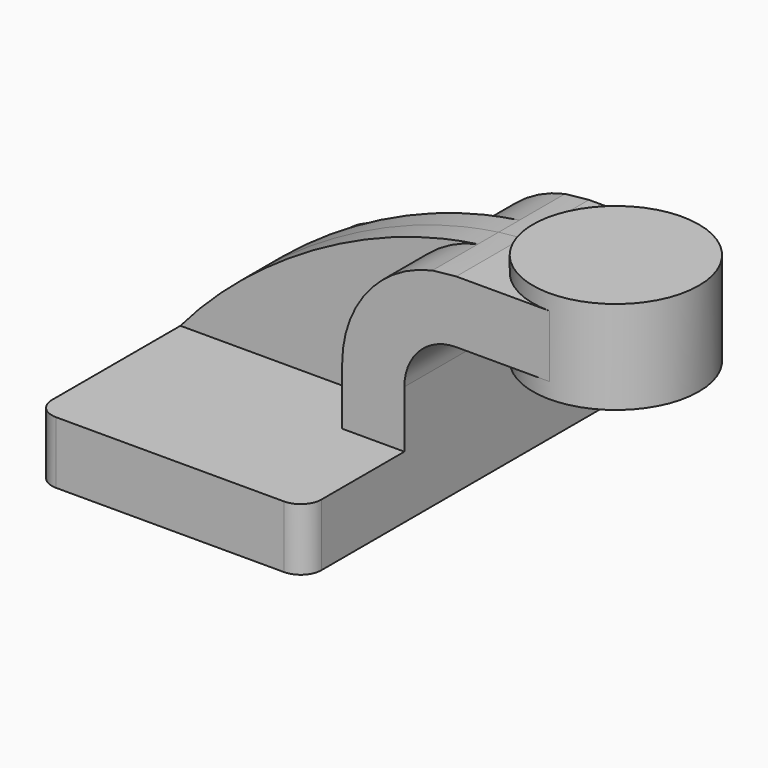
from build123d import *

# Parameters (mm, degrees)
F1_DEPTH = 63.5
F0_W     = 25.4
F0_H     = 19.05
F2_DEPTH = 25.4
F3_DEPTH = 7.9375
F5_R     = 6.35


with BuildPart() as f1:
    # F0 (on Front) → F1 (new body, symmetric)
    with BuildSketch(Plane.XZ):
        Polygon((-41.275, 9.525), (-41.275, -9.525), (41.275, -9.525), (41.275, 9.525), (22.225, 9.525), align=None)
    extrude(amount=F1_DEPTH, both=True)

    # F0 (on Front) → F2 (join, symmetric)
    with BuildSketch(Plane.XZ):
        with Locations((73.025, 52.4002)):
            Rectangle(F0_W, F0_H)
        with BuildLine():
            Line((22.225, 9.525), (41.275, 9.525))
            Line((41.275, 9.525), (41.275, 27.0002))
            ThreePointArc((41.275, 27.0002), (45.9246798487, 38.2255201513), (57.15, 42.8752))
            Line((57.15, 42.8752), (60.325, 42.8752))
            Line((60.325, 42.8752), (60.325, 61.9252))
            Line((60.325, 61.9252), (57.15, 61.9252))
            add(Edge.make_bspline(
                [(49.825534821, 61.1485211131), (52.2596679062, 61.4875076001), (54.7024079175, 61.748044059), (57.15, 61.9252)],
                knots=[104.5406127247, 104.5406127247, 104.5406127247, 104.5406127247, 111.5045361635, 111.5045361635, 111.5045361635, 111.5045361635], degree=3))
            ThreePointArc((49.825534821, 61.1485211131), (29.9878703764, 48.9541139862), (22.225, 27.0002))
            Line((22.225, 27.0002), (22.225, 9.525))
        make_face()
    extrude(amount=F2_DEPTH, both=True)

    # F0 (on Front) → F3 (join, symmetric)
    with BuildSketch(Plane.XZ):
        with BuildLine():
            add(Edge.make_bspline(
                [(-41.275, 9.525), (-21.3160233561, 33.2920678082), (13.2849601847, 56.0597438783), (49.825534821, 61.1485211131)],
                knots=[0, 0, 0, 0, 104.5406127247, 104.5406127247, 104.5406127247, 104.5406127247], degree=3))
            Line((-41.275, 9.525), (22.225, 9.525))
            Line((22.225, 9.525), (22.225, 27.0002))
            ThreePointArc((22.225, 27.0002), (29.9878703764, 48.9541139862), (49.825534821, 61.1485211131))
        make_face()
    extrude(amount=F3_DEPTH, both=True)

    # F0 (on Front) → F4 (revolve)
    with BuildSketch(Plane.XZ):
        Polygon((85.725, 66.675), (85.725, 61.9252), (85.725, 42.8752), (85.725, 38.1), (111.125, 38.1), (111.125, 66.675), align=None)
    revolve(axis=Axis((85.725, 0, 52.3875), (0, 0, 1)))

    # F5
    f5_edges = [f1.edges().sort_by_distance(p)[0] for p in [
        (41.275, -63.5, 0),
        (-41.275, -63.5, 0),
        (41.275, 63.5, 0),
        (-41.275, 63.5, 0),
    ]]
    fillet(f5_edges, radius=F5_R)


solid = f1.part
